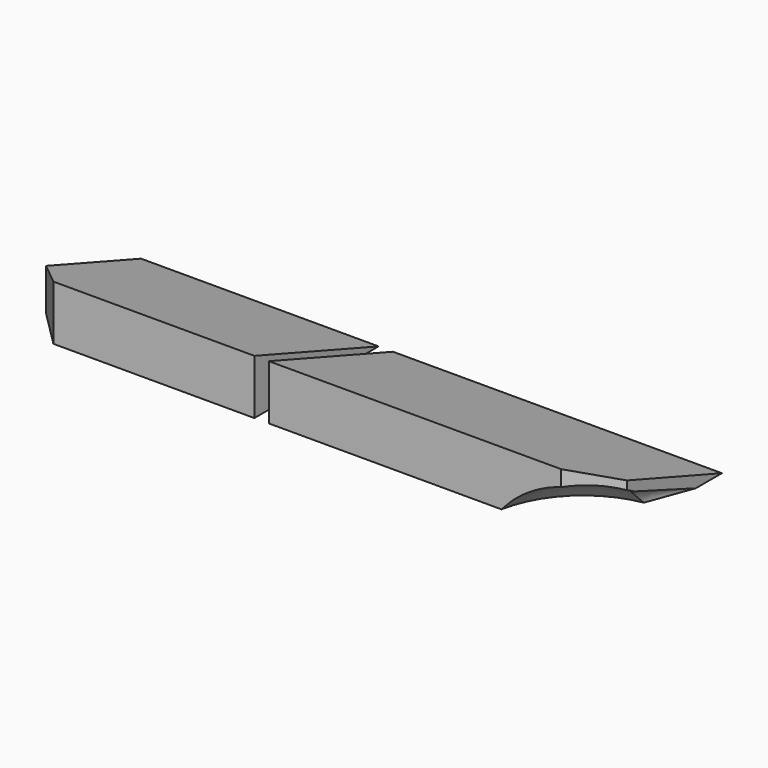
from build123d import *

# Parameters (mm, degrees)
F1_DEPTH  = 38.1
F3_DEPTH  = 165.1
F4_W      = 228.6
F4_H      = 107.95
F5_DEPTH  = 38.1
F7_DEPTH  = 228.6
F13_DEPTH = 101.6


with BuildPart() as f1:
    # F0 (on Top) → F1 (new body)
    with BuildSketch(Plane.XY):
        Polygon((82.55, 53.975), (-82.55, 53.975), (-82.55, -28.575), (-57.15, -28.575), (-57.15, -53.975), (82.55, -53.975), align=None)
        Polygon((-57.15, -28.575), (-82.55, -28.575), (-57.15, -53.975), align=None)
    extrude(amount=F1_DEPTH)

    # F2 (on face) → F3 (cut, through all)
    with BuildSketch(Plane.YZ.offset(82.55)):
        Polygon((-53.975, 38.1), (53.975, 0), (53.975, 38.1), align=None)
    extrude(amount=-F3_DEPTH, mode=Mode.SUBTRACT)


with BuildPart() as f5:
    # F4 (on Top) → F5 (new body)
    with BuildSketch(Plane.XY):
        with Locations((206.9008294222, 0)):
            Rectangle(F4_W, F4_H)
    extrude(amount=F5_DEPTH)

    # F6 (on face) → F7 (cut, through all)
    with BuildSketch(Plane.YZ.offset(321.2008294222)):
        Polygon((-53.975, 38.1), (53.975, 0), (53.975, 38.1), align=None)
    extrude(amount=-F7_DEPTH, mode=Mode.SUBTRACT)

    # F8 (on face) → F9 (revolve, cut)
    with BuildSketch(Plane.YZ.offset(321.2008294222)):
        with BuildLine():
            ThreePointArc((-53.975, 30.8381810245), (-60.3086546229, 31.5217522469), (-66.675, 31.75))
            Line((-66.675, 31.75), (-66.675, -146.05))
            ThreePointArc((-66.675, -146.05), (-3.8132071525, -120.0117928475), (22.225, -57.15))
            ThreePointArc((22.225, -57.15), (16.8622939051, -26.7406177798), (1.4211636218, 0))
            Line((1.4211636218, 0), (-53.975, 0))
            Line((-53.975, 0), (-53.975, 30.8381810245))
        make_face()
        with BuildLine():
            ThreePointArc((1.4211636218, 0), (-23.4343551595, 20.5253283468), (-53.975, 30.8381810245))
            Line((-53.975, 30.8381810245), (-53.975, 0))
            Line((-53.975, 0), (1.4211636218, 0))
        make_face()
    revolve(axis=Axis((321.2008294222, -66.675, -57.15), (0, 0, -1)), mode=Mode.SUBTRACT)

    # F10 (on face) → F11 (revolve, cut)
    with BuildSketch(Plane.YZ.offset(321.2008294222)):
        with BuildLine():
            Line((31.3303954899, 0), (-22.1433918333, 19.7924841949))
            ThreePointArc((-22.1433918333, 19.7924841949), (-9.4981746932, 10.9236413587), (1.4211636217, 0))
            Line((1.4211636217, 0), (31.3303954899, 0))
        make_face()
        with BuildLine():
            ThreePointArc((1.4211636217, 0), (-9.4981746932, 10.9236413587), (-22.1433918333, 19.7924841949))
            Line((-22.1433918333, 19.7924841949), (-22.1433918333, 0))
            Line((-22.1433918333, 0), (1.4211636217, 0))
        make_face()
    revolve(axis=Axis((321.2008294222, 4.5935018283, 0), (0, -1, 0)), mode=Mode.SUBTRACT)

    # F12 (on face) → F13 (cut)
    with BuildSketch(Plane(origin=(0, 0, 0), x_dir=(1, 0, 0), z_dir=(0, 0, -1))):
        Polygon((321.2008294222, 28.575), (321.2008294222, 53.975), (295.8008294222, 53.975), align=None)
    extrude(amount=-F13_DEPTH, mode=Mode.SUBTRACT)


solid = Compound([f1.part, f5.part])
